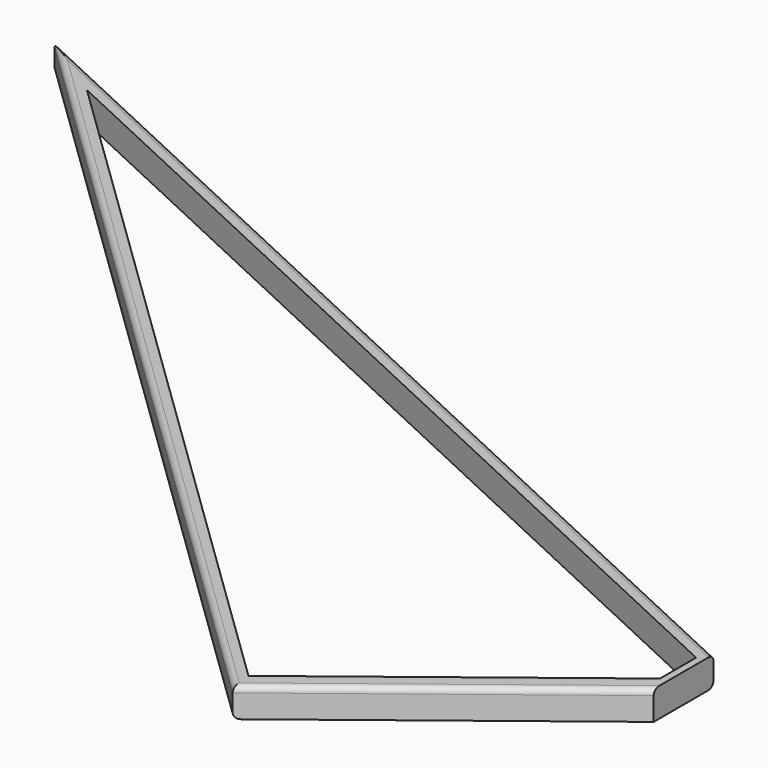
from build123d import *

# Parameters (mm, degrees)
F1_DEPTH = 2.54
F2_R     = 0.508


with BuildPart() as f1:
    # F0 (on Top) → F1 (new body)
    with BuildSketch(Plane.XY):
        Polygon((-22.761848, -17.692075), (0, 0), (0, 6.550886), (-92.096252, 49.455902), align=None)
        Polygon((-85.790934, 45.117378), (-0.635, 5.445659), (-0.635, 1.485886), (-1.476617, 0.826895), (-22.88023, -15.809466), align=None, mode=Mode.SUBTRACT)
    extrude(amount=F1_DEPTH)

    # F2
    f2_edges = [f1.edges().sort_by_distance(p)[0] for p in [
        (-57.42905, 15.881913, 2.54),
        (-11.380924, -8.846038, 2.54),
        (-46.048126, 28.003394, 2.54),
        (-46.048126, 28.003394, 0),
        (-57.42905, 15.881913, 0),
    ]]
    fillet(f2_edges, radius=F2_R)


solid = f1.part
